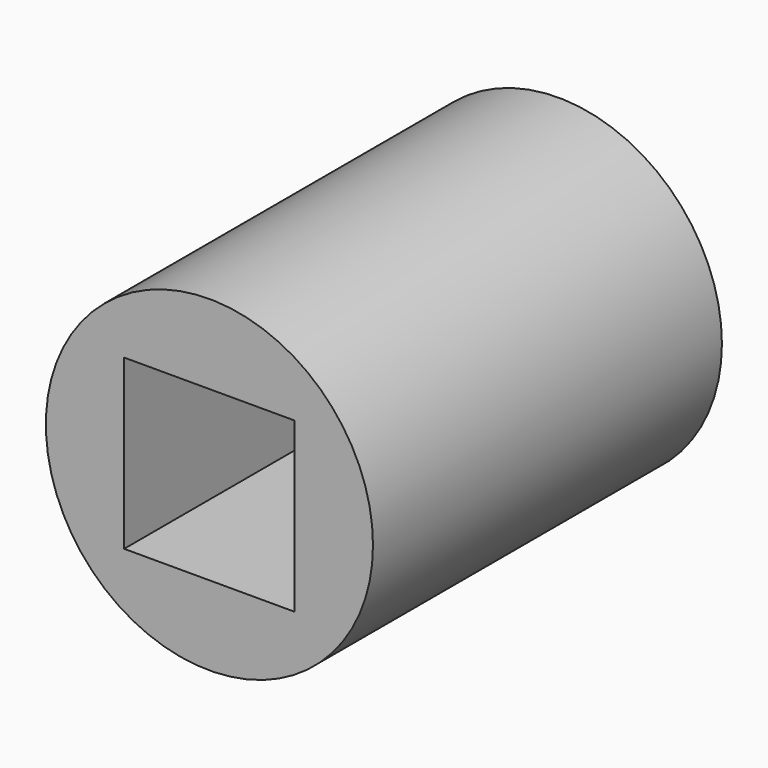
from build123d import *

# Parameters (mm, degrees)
F0_R     = 9.525
F1_DEPTH = 25.4
F2_W     = 9.9314
F2_H     = 9.8044
F3_DEPTH = 25.401


with BuildPart() as f1:
    # F0 (on Front) → F1 (new body)
    with BuildSketch(Plane.XZ):
        Circle(F0_R)
    extrude(amount=F1_DEPTH)

    # F2 (on face) → F3 (cut, through all)
    with BuildSketch(Plane.XZ.offset(25.4)):
        Rectangle(F2_W, F2_H)
    extrude(amount=-F3_DEPTH, mode=Mode.SUBTRACT)


solid = f1.part
